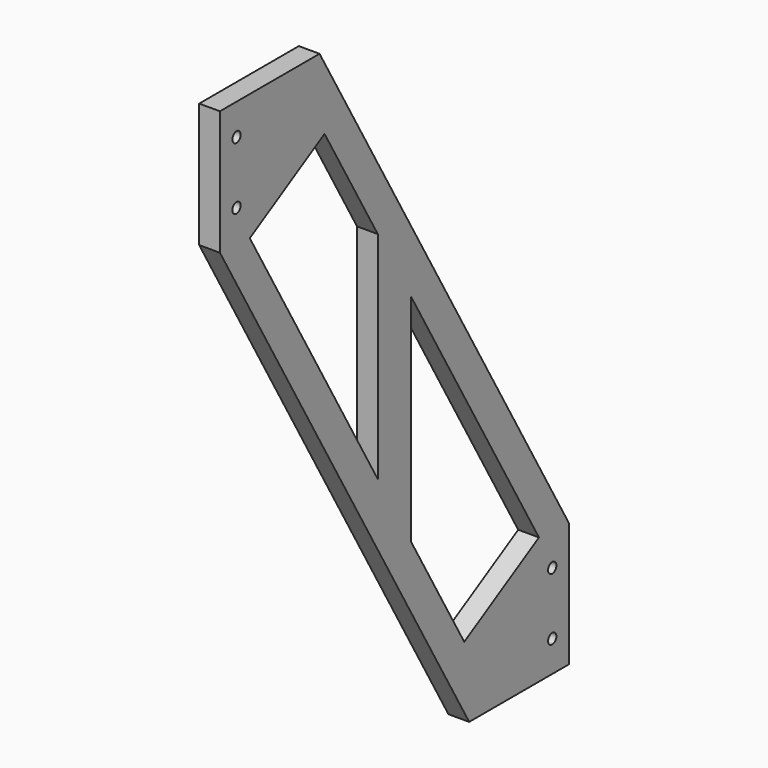
from build123d import *

# Parameters (mm, degrees)
F0_R     = 0.79375
F1_DEPTH = 3.175


with BuildPart() as f1:
    # F0 (on Right) → F1 (new body)
    with BuildSketch(Plane.YZ):
        Polygon((19.05, 0), (0, 0), (0, -19.05), (47.660265, -101.6), (66.710265, -101.6), (66.710265, -82.55), align=None)
        with Locations((63.535265, -96.8375)):
            Circle(F0_R, mode=Mode.SUBTRACT)
        with Locations((63.535265, -87.3125)):
            Circle(F0_R, mode=Mode.SUBTRACT)
        Polygon((36.530132, -72.797045), (36.530132, -39.801477), (60.998319, -82.181619), (46.710819, -90.430511), align=None, mode=Mode.SUBTRACT)
        Polygon((30.180132, -61.798523), (5.711946, -19.418381), (19.999446, -11.169489), (30.180132, -28.802955), align=None, mode=Mode.SUBTRACT)
        with Locations((3.175, -14.2875)):
            Circle(F0_R, mode=Mode.SUBTRACT)
        with Locations((3.175, -4.7625)):
            Circle(F0_R, mode=Mode.SUBTRACT)
    extrude(amount=F1_DEPTH)


solid = f1.part
